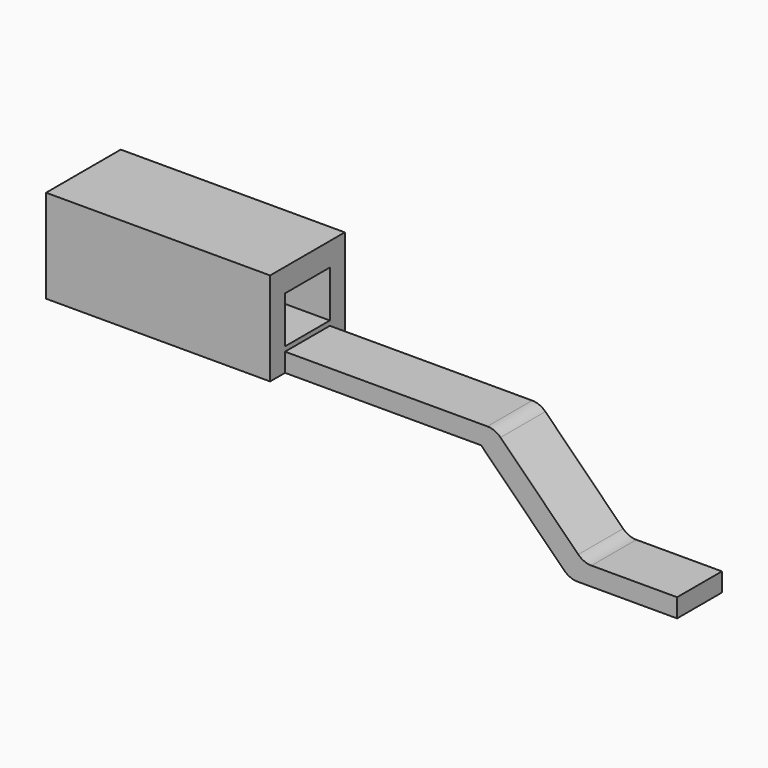
from build123d import *

# Parameters (mm, degrees)
BOX143_W     = 1.2
BOX143_H     = 0.5
BOX143_DEPTH = 0.5
BOX149_W     = 1.5
BOX149_H     = 0.3
BOX149_DEPTH = 0.1
BOX144_W     = 1.3
BOX144_H     = 0.3
BOX144_DEPTH = 0.575
BOX148_W     = 0.25
BOX148_H     = 0.3
BOX148_DEPTH = 0.475
BOX146_W     = 0.5
BOX146_H     = 0.3
BOX146_DEPTH = 0.5
BOX147_W     = 0.5
BOX147_H     = 0.3
BOX147_DEPTH = 0.75
BOX150_W     = 0.4
BOX150_H     = 0.3
BOX150_DEPTH = 0.75
FILLET023_R  = 0.1
FILLET022_R  = 0.1
BOX145_W     = 1.5
BOX145_H     = 0.3
BOX145_DEPTH = 0.25
FILLET030_R  = 0.1


with BuildPart() as part:
    # Box143 → Box143 (join)
    with BuildSketch(Plane(origin=(-2, 4.25, 0.475), x_dir=(1, 0, 0), z_dir=(0, 0, 1))):
        with Locations((0.6, 0.25)):
            Rectangle(BOX143_W, BOX143_H)
    extrude(amount=BOX143_DEPTH)

    # Box149 → Box149 (join)
    with BuildSketch(Plane(origin=(-0.8, 4.35, 0.475), x_dir=(1, 0, 0), z_dir=(0, 0, 1))):
        with Locations((0.75, 0.15)):
            Rectangle(BOX149_W, BOX149_H)
    extrude(amount=BOX149_DEPTH)

    # Box144 → Box144 (join)
    with BuildSketch(Plane(origin=(0, 4.35, 0), x_dir=(1, 0, 0), z_dir=(0, 0, 1))):
        with Locations((0.65, 0.15)):
            Rectangle(BOX144_W, BOX144_H)
    extrude(amount=BOX144_DEPTH)

    # Box148 → Box148 (cut)
    with BuildSketch(Plane(origin=(0, 4.35, 0), x_dir=(1, 0, 0), z_dir=(0, 0, 1))):
        with Locations((0.125, 0.15)):
            Rectangle(BOX148_W, BOX148_H)
    extrude(amount=BOX148_DEPTH, mode=Mode.SUBTRACT)

    # Box146 → Box146 (cut)
    with BuildSketch(Plane(origin=(0.8, 4.35, 0.1), x_dir=(1, 0, 0), z_dir=(0, 0, 1))):
        with Locations((0.25, 0.15)):
            Rectangle(BOX146_W, BOX146_H)
    extrude(amount=BOX146_DEPTH, mode=Mode.SUBTRACT)

    # Box147 → Box147 (cut)
    with BuildSketch(Plane(origin=(0.8, 4.35, 0.1), x_dir=(0.707107, 0, 0.707107), z_dir=(-0.707107, 0, 0.707107))):
        with Locations((0.25, 0.15)):
            Rectangle(BOX147_W, BOX147_H)
    extrude(amount=BOX147_DEPTH, mode=Mode.SUBTRACT)

    # Box150 → Box150 (cut)
    with BuildSketch(Plane(origin=(0.4975, 4.35, -0.338), x_dir=(0.707107, 0, 0.707107), z_dir=(-0.707107, 0, 0.707107))):
        with Locations((0.2, 0.15)):
            Rectangle(BOX150_W, BOX150_H)
    extrude(amount=BOX150_DEPTH, mode=Mode.SUBTRACT)

    # Fillet023
    fillet023_edges = [part.edges().sort_by_distance(p)[0] for p in [
        (0.325, 4.5, 0.575),
    ]]
    fillet(fillet023_edges, radius=FILLET023_R)

    # Fillet022
    fillet022_edges = [part.edges().sort_by_distance(p)[0] for p in [
        (0.725185, 4.5, 0),
    ]]
    fillet(fillet022_edges, radius=FILLET022_R)

    # Box145 → Box145 (cut)
    with BuildSketch(Plane(origin=(-2, 4.35, 0.6), x_dir=(1, 0, 0), z_dir=(0, 0, 1))):
        with Locations((0.75, 0.15)):
            Rectangle(BOX145_W, BOX145_H)
    extrude(amount=BOX145_DEPTH, mode=Mode.SUBTRACT)

    # Fillet030
    fillet030_edges = [part.edges().sort_by_distance(p)[0] for p in [
        (0.8, 4.5, 0.1),
    ]]
    fillet(fillet030_edges, radius=FILLET030_R)


with BuildPart() as part_1:
    # Body045 placement: moved
    add(part.part.moved(Location((0, -4.5, 0))))


solid = part_1.part
